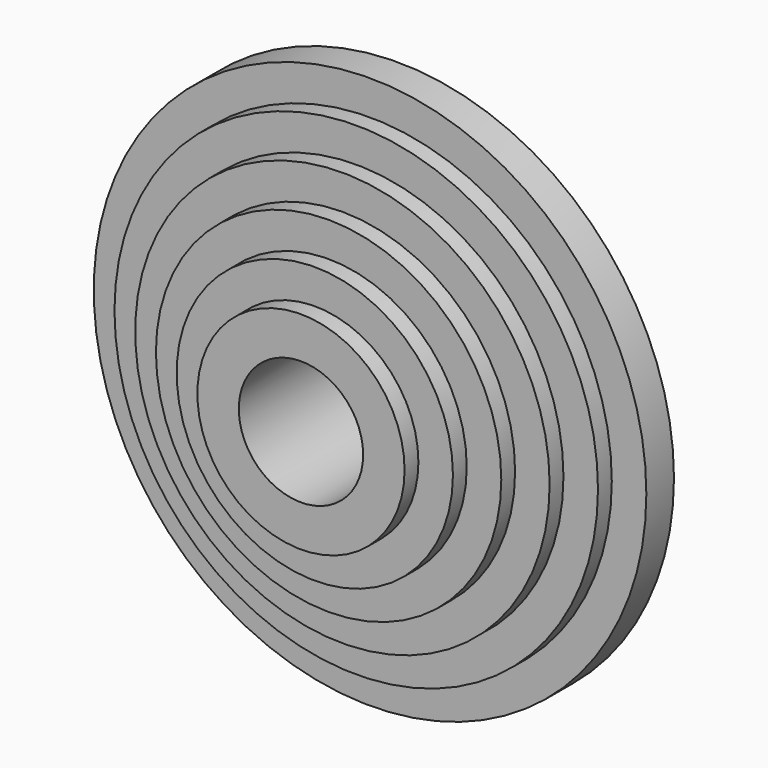
from build123d import *

# Parameters (mm, degrees)
F0_R      = 50.8
F1_DEPTH  = 3.175
F2_R      = 50.8
F3_DEPTH  = 3.175
F4_R      = 44.45
F5_DEPTH  = 3.175
F6_R      = 38.1
F7_DEPTH  = 3.175
F8_R      = 31.75
F9_DEPTH  = 3.175
F10_R     = 25.4
F11_DEPTH = 3.175
F12_R     = 19.05
F13_DEPTH = 3.175
F14_R     = 11.43
F15_DEPTH = 22.225


with BuildPart() as f1:
    # F0 (on Front) → F1 (new body)
    with BuildSketch(Plane.XZ):
        Circle(F0_R)
    extrude(amount=F1_DEPTH)

    # F2 (on face) → F3 (join)
    with BuildSketch(Plane.XZ.offset(3.175)):
        Circle(F2_R)
    extrude(amount=F3_DEPTH)

    # F4 (on face) → F5 (join)
    with BuildSketch(Plane.XZ.offset(6.35)):
        Circle(F4_R)
    extrude(amount=F5_DEPTH)

    # F6 (on face) → F7 (join)
    with BuildSketch(Plane.XZ.offset(9.525)):
        Circle(F6_R)
    extrude(amount=F7_DEPTH)

    # F8 (on face) → F9 (join)
    with BuildSketch(Plane.XZ.offset(12.7)):
        Circle(F8_R)
    extrude(amount=F9_DEPTH)

    # F10 (on face) → F11 (join)
    with BuildSketch(Plane.XZ.offset(15.875)):
        Circle(F10_R)
    extrude(amount=F11_DEPTH)

    # F12 (on face) → F13 (join)
    with BuildSketch(Plane.XZ.offset(19.05)):
        Circle(F12_R)
    extrude(amount=F13_DEPTH)

    # F14 (on face) → F15 (cut)
    with BuildSketch(Plane.XZ.offset(22.225)):
        Circle(F14_R)
    extrude(amount=-F15_DEPTH, mode=Mode.SUBTRACT)


solid = f1.part
